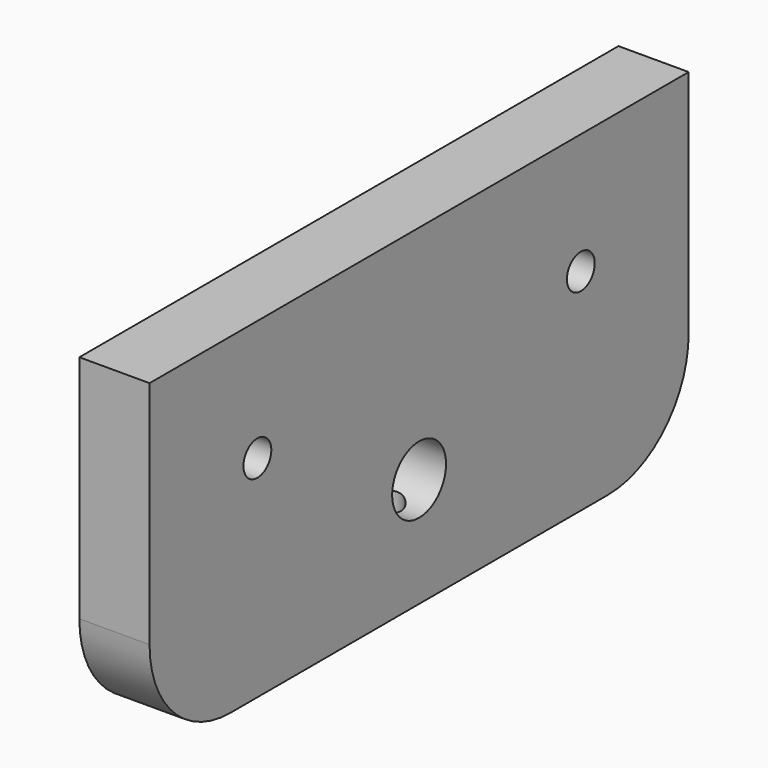
from build123d import *

# Parameters (mm, degrees)
SKETCH_R        = 6
SKETCH_R_2      = 3.1
PAD_DEPTH       = 12.5
SKETCH001_R     = 5.4
POCKET_DEPTH    = 5
SKETCH003_R     = 3
POCKET001_DEPTH = 15


with BuildPart() as part:
    # Sketch → Pad (new body)
    with BuildSketch(Plane(origin=(0, 0, 0), x_dir=(0, -1, 0), z_dir=(-1, 0, 0))):
        with BuildLine():
            Line((-60, 0), (60, 0))
            Line((60, 0), (60, -41))
            ThreePointArc((42, -59), (54.727922, -53.727922), (60, -41))
            Line((42, -59), (-42.000001, -59))
            ThreePointArc((-60, -41.000038), (-54.727909, -53.727935), (-42.000001, -59))
            Line((-60, -41.000038), (-60, 0))
        make_face()
        with Locations((0, -39.5)):
            Circle(SKETCH_R, mode=Mode.SUBTRACT)
        with Locations((-36, -21.5)):
            Circle(SKETCH_R_2, mode=Mode.SUBTRACT)
        with Locations((36, -21.5)):
            Circle(SKETCH_R_2, mode=Mode.SUBTRACT)
    extrude(amount=PAD_DEPTH)

    # Sketch001 → Pocket (cut)
    with BuildSketch(Plane(origin=(-12.5, 0, 0), x_dir=(0, -1, 0), z_dir=(-1, 0, 0))):
        with Locations((-36, -21.5)):
            Circle(SKETCH001_R)
        with Locations((36, -21.5)):
            Circle(SKETCH001_R)
    extrude(amount=-POCKET_DEPTH, mode=Mode.SUBTRACT)

    # Sketch003 → Pocket001 (cut)
    with BuildSketch(Plane(origin=(0, 0, -59), x_dir=(0, -1, 0), z_dir=(0, 0, -1))):
        with Locations((0, 6.25)):
            Circle(SKETCH003_R)
    extrude(amount=-POCKET001_DEPTH, mode=Mode.SUBTRACT)


solid = part.part
